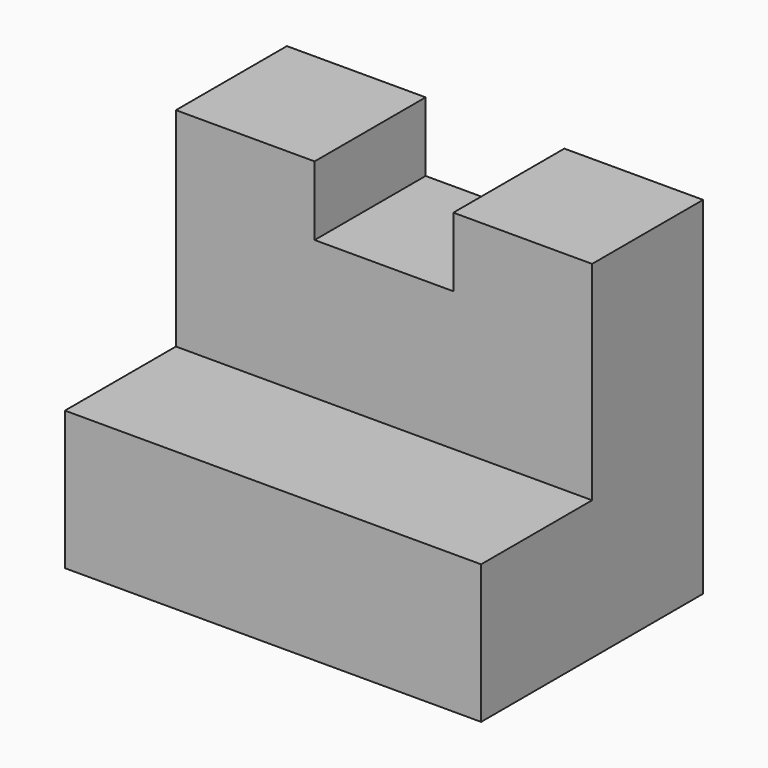
from build123d import *

# Parameters (mm, degrees)
F1_DEPTH = 38.1
F2_W     = 12.7
F2_H     = 6.35
F3_DEPTH = 12.7


with BuildPart() as f1:
    # F0 (on Right) → F1 (new body)
    with BuildSketch(Plane.YZ):
        Polygon((-25.4, 0), (0, 0), (0, 31.75), (-12.7, 31.75), (-12.7, 12.7), (-25.4, 12.7), align=None)
    extrude(amount=F1_DEPTH)

    # F2 (on Front) → F3 (cut)
    with BuildSketch(Plane.XZ):
        with Locations((19.05, 28.588401)):
            Rectangle(F2_W, F2_H)
    extrude(amount=F3_DEPTH, mode=Mode.SUBTRACT)


solid = f1.part
